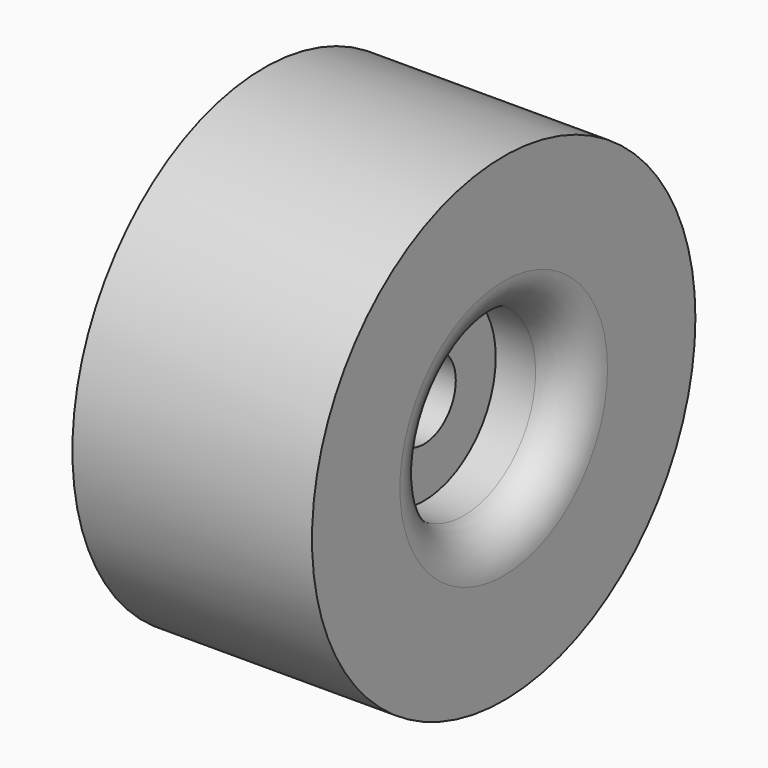
from build123d import *

# Parameters (mm, degrees)
F0_R     = 38.1
F0_R_2   = 14.2875
F1_DEPTH = 19.05
F0_R_3   = 6.35
F2_DEPTH = 6.35
F3_R     = 6.35


with BuildPart() as f1:
    # F0 (on Right) → F1 (new body, symmetric)
    with BuildSketch(Plane.YZ):
        Circle(F0_R)
        Circle(F0_R_2, mode=Mode.SUBTRACT)
    extrude(amount=F1_DEPTH, both=True)

    # F0 (on Right) → F2 (join, symmetric)
    with BuildSketch(Plane.YZ):
        Circle(F0_R_2)
        Circle(F0_R_3, mode=Mode.SUBTRACT)
    extrude(amount=F2_DEPTH, both=True)

    # F3
    f3_edges = [f1.edges().sort_by_distance(p)[0] for p in [
        (-19.05, -14.2875, 0),
        (19.05, -14.2875, 0),
    ]]
    fillet(f3_edges, radius=F3_R)


solid = f1.part
